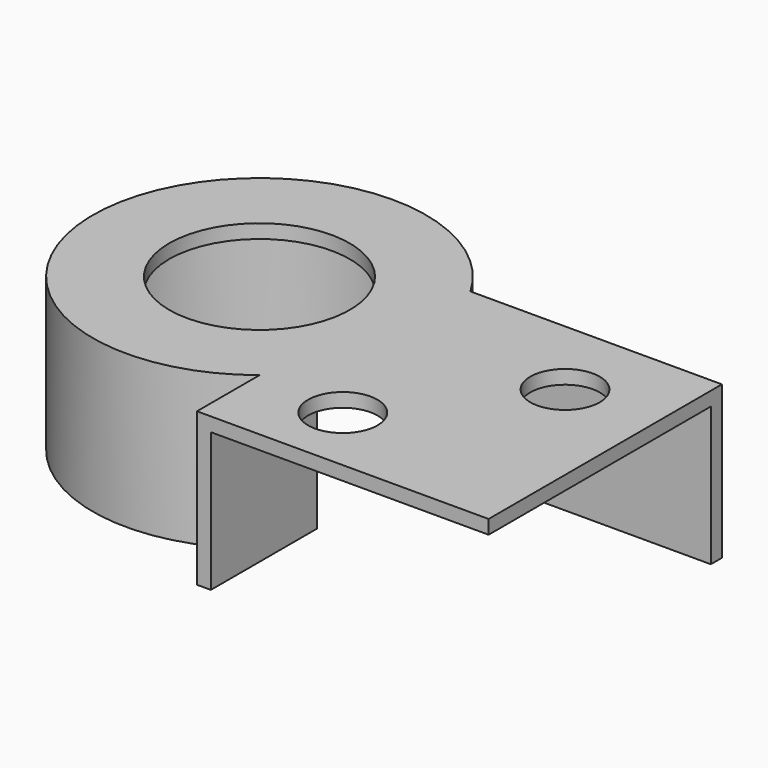
from build123d import *

# Parameters (mm, degrees)
CYLINDER041_R          = 6.5
CYLINDER041_DEPTH      = 11
CYLINDER030_R          = 2.5
CYLINDER030_DEPTH      = 11
CYLINDER031_R          = 2.5
CYLINDER031_DEPTH      = 11
BOX008_W               = 1
BOX008_H               = 7
BOX008_DEPTH           = 11
BOX010_W               = 20
BOX010_H               = 20
BOX010_DEPTH           = 1
CYLINDER035_R          = 12
CYLINDER035_DEPTH      = 1
PAD015_DEPTH           = 10
BOX011_W               = 177
BOX011_H               = 100
BOX011_DEPTH           = 10
CYLINDER029_R          = 7.5
CYLINDER029_DEPTH      = 10
CYLINDER038_R          = 10
CYLINDER038_DEPTH      = 10
CYLINDER039_R          = 7.5
CYLINDER039_DEPTH      = 10
CYLINDER032_R          = 10
CYLINDER032_DEPTH      = 10
PAD012_DEPTH           = 6.5
PAD013_DEPTH           = 4
PAD014_DEPTH           = 10
CYLINDER034_R          = 7.5
CYLINDER034_DEPTH      = 10
CYLINDER037_R          = 10
CYLINDER037_DEPTH      = 10
CYLINDER036_R          = 7.5
CYLINDER036_DEPTH      = 10
CYLINDER033_R          = 10
CYLINDER033_DEPTH      = 10
TUBE001_R              = 12
TUBE001_R_2            = 10.1
TUBE001_DEPTH          = 10
BOX009_W               = 19
BOX009_H               = 1
BOX009_DEPTH           = 11
CUT032_PLACEMENT_ANGLE = 180


with BuildPart() as cilindro041:
    # Cylinder041 → Cylinder041 (new body)
    with BuildSketch(Plane(origin=(97, 90, 0), x_dir=(1, 0, 0), z_dir=(0, 0, 1))):
        Circle(CYLINDER041_R)
    extrude(amount=CYLINDER041_DEPTH)


with BuildPart() as cilindro030:
    # Cylinder030 → Cylinder030 (new body)
    with BuildSketch(Plane(origin=(-83, 10, 0), x_dir=(1, 0, 0), z_dir=(0, 0, 1))):
        Circle(CYLINDER030_R)
    extrude(amount=CYLINDER030_DEPTH)


with BuildPart() as cilindro031:
    # Cylinder031 → Cylinder031 (new body)
    with BuildSketch(Plane(origin=(-75, 0, 0), x_dir=(1, 0, 0), z_dir=(0, 0, 1))):
        Circle(CYLINDER031_R)
    extrude(amount=CYLINDER031_DEPTH)


with BuildPart() as cubo004:
    # Box008 → Box008 (new body)
    with BuildSketch(Plane(origin=(-89.5, 8, 0), x_dir=(1, 0, 0), z_dir=(0, 0, 1))):
        with Locations((0.5, 3.5)):
            Rectangle(BOX008_W, BOX008_H)
    extrude(amount=BOX008_DEPTH)


with BuildPart() as cubo006:
    # Box010 → Box010 (new body)
    with BuildSketch(Plane(origin=(-88.5, -5, 10), x_dir=(1, 0, 0), z_dir=(0, 0, 1))):
        with Locations((10, 10)):
            Rectangle(BOX010_W, BOX010_H)
    extrude(amount=BOX010_DEPTH)


with BuildPart() as cilindro035:
    # Cylinder035 → Cylinder035 (new body)
    with BuildSketch(Plane(origin=(-97, 0, 10), x_dir=(1, 0, 0), z_dir=(0, 0, 1))):
        Circle(CYLINDER035_R)
    extrude(amount=CYLINDER035_DEPTH)


with BuildPart() as body011:
    # Sketch013 → Pad015 (new body)
    with BuildSketch(Plane.XY):
        Polygon((8.5, 4.907477), (0, 9.814955), (-8.5, 4.907477), (-8.5, -4.907477), (0, -9.814955), (8.5, -4.907477), align=None)
    extrude(amount=PAD015_DEPTH)


with BuildPart() as body011_1:
    # Body011 placement: moved
    add(body011.part.moved(Location((0, 45.1, 0))))


with BuildPart() as cut026:
    # Box011 → Box011 (new body)
    with BuildSketch(Plane(origin=(-88.5, -5, 0), x_dir=(1, 0, 0), z_dir=(0, 0, 1))):
        with Locations((88.5, 50)):
            Rectangle(BOX011_W, BOX011_H)
    extrude(amount=BOX011_DEPTH)

    # Cut026: cut Body011
    add(body011_1.part, mode=Mode.SUBTRACT)


with BuildPart() as cilindro029:
    # Cylinder029 → Cylinder029 (new body)
    with BuildSketch(Plane(origin=(0, 20, 0), x_dir=(1, 0, 0), z_dir=(0, 0, 1))):
        Circle(CYLINDER029_R)
    extrude(amount=CYLINDER029_DEPTH)


with BuildPart() as obj1:
    # Cylinder038 → Cylinder038 (new body)
    with BuildSketch(Plane(origin=(0, 20, 0), x_dir=(1, 0, 0), z_dir=(0, 0, 1))):
        Circle(CYLINDER038_R)
    extrude(amount=CYLINDER038_DEPTH)

    # Cut028: cut Cilindro029
    add(cilindro029.part, mode=Mode.SUBTRACT)


with BuildPart() as obj1_1:
    # Cut028 placement: moved
    add(obj1.part.moved(Location((-97, -20, 0))))


with BuildPart() as cilindro039:
    # Cylinder039 → Cylinder039 (new body)
    with BuildSketch(Plane(origin=(0, 20, 0), x_dir=(1, 0, 0), z_dir=(0, 0, 1))):
        Circle(CYLINDER039_R)
    extrude(amount=CYLINDER039_DEPTH)


with BuildPart() as fusion014:
    # Cylinder032 → Cylinder032 (new body)
    with BuildSketch(Plane(origin=(0, 20, 0), x_dir=(1, 0, 0), z_dir=(0, 0, 1))):
        Circle(CYLINDER032_R)
    extrude(amount=CYLINDER032_DEPTH)

    # Cut027: cut Cilindro039
    add(cilindro039.part, mode=Mode.SUBTRACT)


with BuildPart() as fusion014_1:
    # Cut027 placement: moved
    add(fusion014.part.moved(Location((97, -20, 0))))

    # Fusion014: union obj1
    add(obj1_1.part)


with BuildPart() as cuerpo006:
    # Sketch014 → Pad012 (new body)
    with BuildSketch(Plane.XY):
        Polygon((0, 7.505553), (-6.5, 3.752777), (-6.5, -3.752777), (0, -7.505553), (6.5, -3.752777), (6.5, 3.752777), align=None)
    extrude(amount=PAD012_DEPTH)

    # Sketch015 (on Face8 of Pad012) → Pad013 (join)
    with BuildSketch(Plane.XY.offset(6.5)):
        Polygon((0, 5.773503), (-5, 2.886751), (-5, -2.886751), (0, -5.773503), (5, -2.886751), (5, 2.886751), align=None)
    extrude(amount=PAD013_DEPTH)


with BuildPart() as cut029:
    # Sketch012 → Pad014 (new body)
    with BuildSketch(Plane.XY):
        Polygon((0, 9.814955), (-8.5, 4.907477), (-8.5, -4.907477), (0, -9.814955), (8.5, -4.907477), (8.5, 4.907477), align=None)
    extrude(amount=PAD014_DEPTH)

    # Cut029: cut Cuerpo006
    add(cuerpo006.part, mode=Mode.SUBTRACT)


with BuildPart() as cut029_1:
    # Cut029 placement: moved
    add(cut029.part.moved(Location((0, 45.1, 0))))


with BuildPart() as cilindro034:
    # Cylinder034 → Cylinder034 (new body)
    with BuildSketch(Plane(origin=(0, 20, 0), x_dir=(1, 0, 0), z_dir=(0, 0, 1))):
        Circle(CYLINDER034_R)
    extrude(amount=CYLINDER034_DEPTH)


with BuildPart() as obj2:
    # Cylinder037 → Cylinder037 (new body)
    with BuildSketch(Plane(origin=(0, 20, 0), x_dir=(1, 0, 0), z_dir=(0, 0, 1))):
        Circle(CYLINDER037_R)
    extrude(amount=CYLINDER037_DEPTH)

    # Cut030: cut Cilindro034
    add(cilindro034.part, mode=Mode.SUBTRACT)


with BuildPart() as obj2_1:
    # Cut030 placement: moved
    add(obj2.part.moved(Location((-97, -20, 0))))


with BuildPart() as cilindro036:
    # Cylinder036 → Cylinder036 (new body)
    with BuildSketch(Plane(origin=(0, 20, 0), x_dir=(1, 0, 0), z_dir=(0, 0, 1))):
        Circle(CYLINDER036_R)
    extrude(amount=CYLINDER036_DEPTH)


with BuildPart() as fusion011:
    # Cylinder033 → Cylinder033 (new body)
    with BuildSketch(Plane(origin=(0, 20, 0), x_dir=(1, 0, 0), z_dir=(0, 0, 1))):
        Circle(CYLINDER033_R)
    extrude(amount=CYLINDER033_DEPTH)

    # Cut033: cut Cilindro036
    add(cilindro036.part, mode=Mode.SUBTRACT)


with BuildPart() as fusion011_1:
    # Cut033 placement: moved
    add(fusion011.part.moved(Location((97, -20, 0))))

    # Fusion013: union obj2
    add(obj2_1.part)


with BuildPart() as fusion011_2:
    # Fusion013 placement: moved
    add(fusion011_1.part.moved(Location((0, 90, 0))))

    # Fusion011: union Cut026, Fusion014, Cut029
    add(cut026.part)
    add(fusion014_1.part)
    add(cut029_1.part)


with BuildPart() as cut031:
    # Tube001 → Tube001 (new body)
    with BuildSketch(Plane(origin=(-97, 0, 0), x_dir=(1, 0, 0), z_dir=(0, 0, 1))):
        Circle(TUBE001_R)
        Circle(TUBE001_R_2, mode=Mode.SUBTRACT)
    extrude(amount=TUBE001_DEPTH)

    # Cut031: cut Fusion011
    add(fusion011_2.part, mode=Mode.SUBTRACT)


with BuildPart() as obj3:
    # Box009 → Box009 (new body)
    with BuildSketch(Plane(origin=(-87.5, -6, 0), x_dir=(1, 0, 0), z_dir=(0, 0, 1))):
        with Locations((9.5, 0.5)):
            Rectangle(BOX009_W, BOX009_H)
    extrude(amount=BOX009_DEPTH)

    # Fusion012: union Cubo004, Cubo006, Cilindro035, Cut031
    add(cubo004.part)
    add(cubo006.part)
    add(cilindro035.part)
    add(cut031.part)

    # Cut025: cut Cilindro031
    add(cilindro031.part, mode=Mode.SUBTRACT)

    # Cut032: cut Cilindro030
    add(cilindro030.part, mode=Mode.SUBTRACT)


with BuildPart() as obj3_1:
    # Cut032 placement: moved
    add(obj3.part.moved(Location((0, 90, 0))).rotate(Axis((0, 90, 0), (0, 0, 1)), CUT032_PLACEMENT_ANGLE))

    # Cut035: cut Cilindro041
    add(cilindro041.part, mode=Mode.SUBTRACT)


with BuildPart() as eng_arandela_par:
    # Part__Mirroring001: instance of obj3
    add(obj3_1.part.mirror(Plane(origin=(0, 0, 0), x_dir=(0, -1, 0), z_dir=(1, 0, 0))))


solid = eng_arandela_par.part
